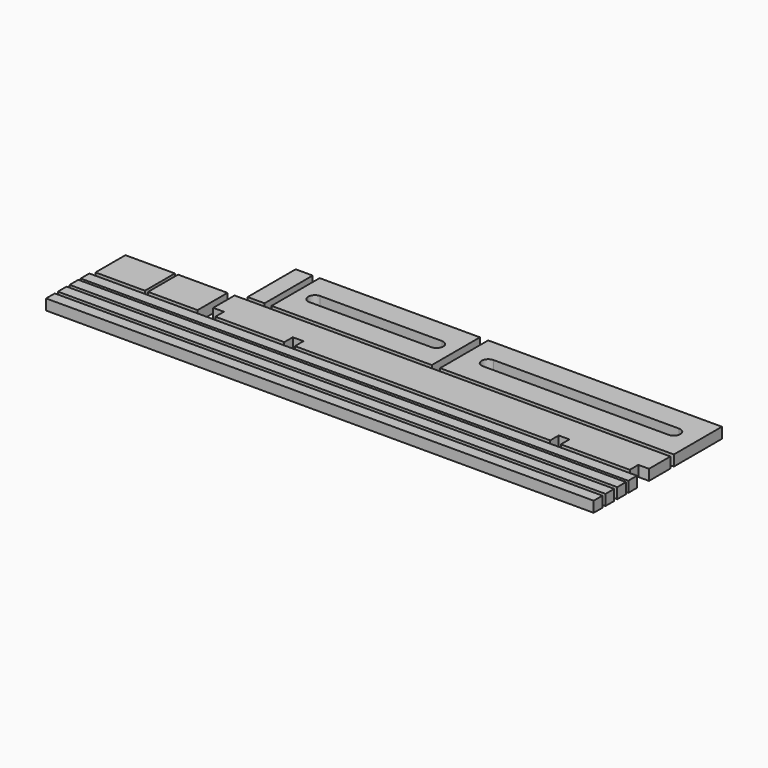
from build123d import *

# Parameters (mm, degrees)
F0_W     = 175
F0_H     = 45
F0_W_2   = 120
F0_W_3   = 12.709826
F0_W_4   = 410
F0_H_2   = 8.147681
F0_H_3   = 8.14768
F0_W_5   = 37.028447
F0_H_4   = 28
F1_DEPTH = 8


with BuildPart() as f1:
    # F0 (on Top) → F1 (new body)
    with BuildSketch(Plane.XY):
        with Locations((117.5, 37.5)):
            Rectangle(F0_W, F0_H)
        with BuildLine():
            Line((186.923676, 32.5), (48.076324, 32.5))
            ThreePointArc((48.076324, 32.5), (43.076324, 37.5), (48.076324, 42.5))
            Line((48.076324, 42.5), (186.923676, 42.5))
            ThreePointArc((186.923676, 42.5), (191.923676, 37.5), (186.923676, 32.5))
        make_face(mode=Mode.SUBTRACT)
        with Locations((-36.195388, 37.5)):
            Rectangle(F0_W_2, F0_H)
        with BuildLine():
            ThreePointArc((-81.785001, 32.5), (-86.785001, 37.5), (-81.785001, 42.5))
            Line((-81.785001, 42.5), (9.394225, 42.5))
            ThreePointArc((9.394225, 42.5), (14.394225, 37.5), (9.394225, 32.5))
            Line((9.394225, 32.5), (-81.785001, 32.5))
        make_face(mode=Mode.SUBTRACT)
        with Locations((-107.757263, 37.5)):
            Rectangle(F0_W_3, F0_H)
        Polygon((205, -8.25), (205, 11.75), (-121.278131, 11.75), (-121.278131, -8.25), (-113.278131, -8.25), (-113.278131, -16.25), (-61.689003, -16.25), (-61.689003, -8.25), (-53.689003, -8.25), (-53.689003, -16.25), (137.410872, -16.25), (137.410872, -8.25), (145.410872, -8.25), (145.410872, -16.25), (197, -16.25), (197, -8.25), align=None)
        with Locations((0, -23.57384)):
            Rectangle(F0_W_4, F0_H_2)
        with Locations((0, -33.902851)):
            Rectangle(F0_W_4, F0_H_3)
        with Locations((0, -55.926159)):
            Rectangle(F0_W_4, F0_H_2)
        with Locations((0, -44.869955)):
            Rectangle(F0_W_4, F0_H_3)
        with Locations((-145.087354, -2.25)):
            Rectangle(F0_W_5, F0_H_4)
        with Locations((-184.498123, -2.25)):
            Rectangle(F0_W_5, F0_H_4)
    extrude(amount=F1_DEPTH)


solid = f1.part
